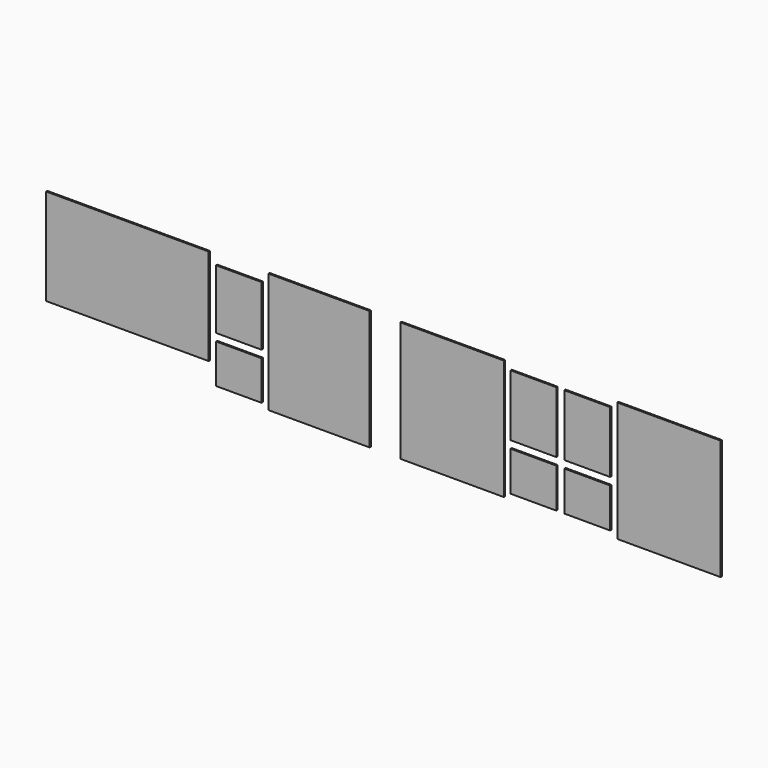
from build123d import *

# Parameters (mm, degrees)
F0_W     = 1739
F0_H     = 2016.605266
F0_W_2   = 770
F0_H_2   = 665
F0_H_3   = 1031.802324
F0_W_3   = 1736
F0_W_4   = 1700
F0_W_5   = 765
F0_H_4   = 1000
F0_H_5   = 658
F0_W_6   = 2730
F0_H_6   = 1618.605266
F1_DEPTH = 25


with BuildPart() as f1:
    # F0 (on Front) → F1 (new body)
    with BuildSketch(Plane.XZ):
        with Locations((1383.5, 1052.302633)):
            Rectangle(F0_W, F0_H)
        with Locations((2750, 462.5)):
            Rectangle(F0_W_2, F0_H_2)
        with Locations((3651, 462.5)):
            Rectangle(F0_W_2, F0_H_2)
        with Locations((3651, 1436.901162)):
            Rectangle(F0_W_2, F0_H_3)
        with Locations((2750, 1436.901162)):
            Rectangle(F0_W_2, F0_H_3)
        with Locations((5024, 1052.302633)):
            Rectangle(F0_W_3, F0_H)
        with Locations((-850, 1052.302633)):
            Rectangle(F0_W_4, F0_H)
        with Locations((-2196.5, 1398)):
            Rectangle(F0_W_5, F0_H_4)
        with Locations((-2196.5, 443)):
            Rectangle(F0_W_5, F0_H_5)
        with Locations((-4066, 1251.302633)):
            Rectangle(F0_W_6, F0_H_6)
    extrude(amount=F1_DEPTH)


solid = f1.part
